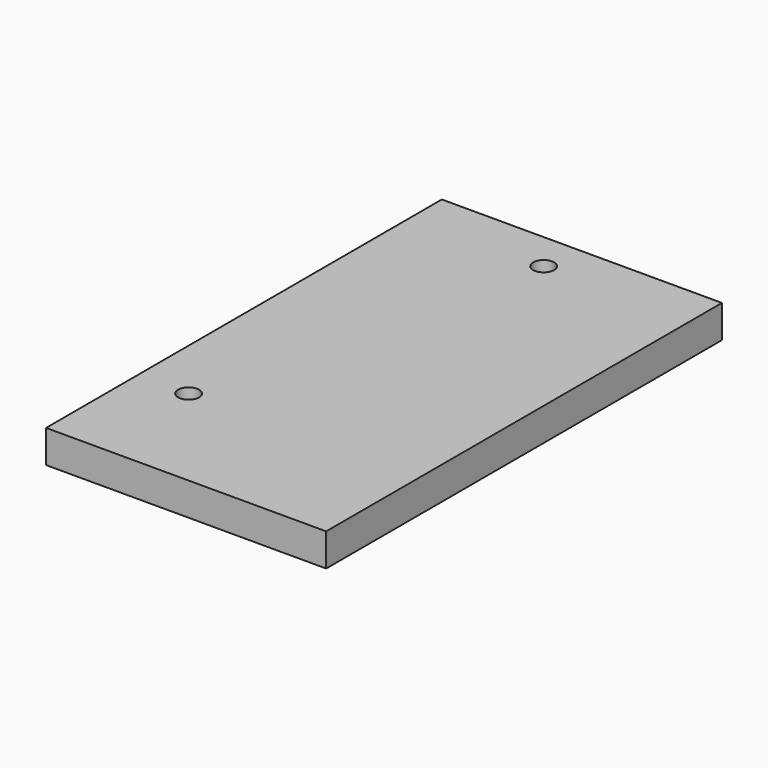
from build123d import *

# Parameters (mm, degrees)
F0_W        = 20.9599784
F0_H        = 42.260012
F0_R        = 2.032
F1_DEPTH    = 6.35
F2_W        = 32.0040006191
F2_H        = 57.15
F2_W_2      = 20.9599784
F2_H_2      = 42.260012
F3_DEPTH    = 12.7
F4_W        = 54.2940877291
F4_H        = 95.895376205
F4_W_2      = 32.0040006191
F4_H_2      = 57.15
F4_R        = 2.032
F3_FACE_W   = 32.0040006191
F3_FACE_H   = 57.15
F3_FACE_W_2 = 20.9599784
F3_FACE_H_2 = 42.260012
F5_DEPTH    = 25.4


with BuildPart() as f1:
    # F0 (on Top) → F1 (new body)
    with BuildSketch(Plane.XY):
        Polygon((64.1610962078, 69.1004172512), (36.6851288078, 69.1004172512), (9.8670084787, 69.1004172512), (9.8670084787, 61.6404372512), (9.8670084787, -26.7949589538), (64.1610962078, -26.7949589538), align=None)
        with Locations((47.1651180078, 4.2184540512)):
            Rectangle(F0_W, F0_H, mode=Mode.SUBTRACT)
        with BuildLine():
            ThreePointArc((34.2246816078, 61.6404372512), (32.1926816078, 59.6084372512), (30.1606816078, 61.6404372512))
            ThreePointArc((30.1606816078, 61.6404372512), (32.1926816078, 63.6724372512), (34.2246816078, 61.6404372512))
        make_face(mode=Mode.SUBTRACT)
        with BuildLine():
            Line((9.8670084787, 61.6404372512), (9.8670084787, 69.1004172512))
            Line((9.8670084787, 69.1004172512), (-44.4270792504, 69.1004172512))
            Line((-44.4270792504, 69.1004172512), (-44.4270792504, -26.7949589538))
            Line((-44.4270792504, -26.7949589538), (-18.7219286708, -26.7949589538))
            Line((-18.7219286708, -26.7949589538), (-18.7219286708, 59.6084372512))
            ThreePointArc((-18.7219286708, 59.6084372512), (-20.1587696502, 63.0772782306), (-16.6899286708, 61.6404372512))
            Line((-16.6899286708, 61.6404372512), (9.8670084787, 61.6404372512))
        make_face()
        with Locations((-34.6146070708, -4.524490289)):
            Circle(F0_R, mode=Mode.SUBTRACT)
        with BuildLine():
            Line((9.8670084787, -26.7949589538), (9.8670084787, 61.6404372512))
            Line((9.8670084787, 61.6404372512), (-16.6899286708, 61.6404372512))
            ThreePointArc((-16.6899286708, 61.6404372512), (-17.2850876915, 60.2035962718), (-18.7219286708, 59.6084372512))
            Line((-18.7219286708, 59.6084372512), (-18.7219286708, -26.7949589538))
            Line((-18.7219286708, -26.7949589538), (9.8670084787, -26.7949589538))
        make_face()
    extrude(amount=F1_DEPTH)

    # F2 (on face) → F3 (join)
    with BuildSketch(Plane.XY.offset(6.35)):
        with Locations((47.0991291173, 4.2974480512)):
            Rectangle(F2_W, F2_H)
        with Locations((47.1651180078, 4.2184540512)):
            Rectangle(F2_W_2, F2_H_2, mode=Mode.SUBTRACT)
    extrude(amount=F3_DEPTH)

    # F4 (on face) + F3_face (on face) → F5 (cut)
    with BuildSketch(Plane.XY.offset(6.35)):
        with Locations((37.0140523432, 21.1527291487)):
            Rectangle(F4_W, F4_H)
        with Locations((47.0991291173, 4.2974480512)):
            Rectangle(F4_W_2, F4_H_2, mode=Mode.SUBTRACT)
        with Locations((32.1926816078, 61.6404372512)):
            Circle(F4_R, mode=Mode.SUBTRACT)
    with BuildSketch(Plane(origin=(47.0371621853, 4.371627444, 19.05), x_dir=(1, 0, 0), z_dir=(0, 0, 1))):
        with Locations((0.061966932, -0.0741793928)):
            Rectangle(F3_FACE_W, F3_FACE_H)
        with Locations((0.1279558225, -0.1531733928)):
            Rectangle(F3_FACE_W_2, F3_FACE_H_2, mode=Mode.SUBTRACT)
    extrude(amount=-F5_DEPTH, mode=Mode.SUBTRACT)


solid = f1.part
